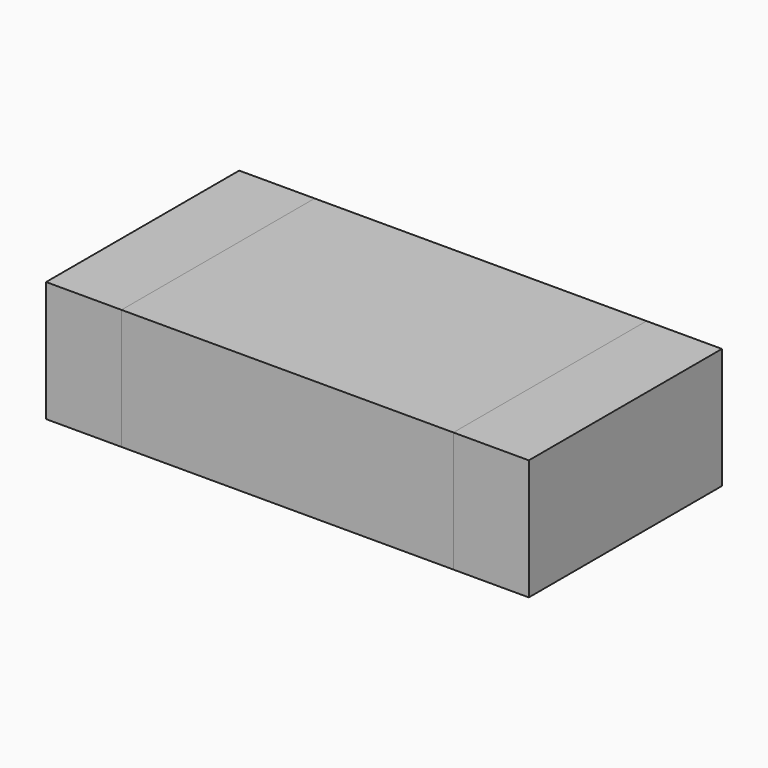
from build123d import *

# Parameters (mm, degrees)
BOX_W        = 0.5
BOX_H        = 1.6
BOX_DEPTH    = 0.8
BOX001_W     = 2.2
BOX001_H     = 1.6
BOX001_DEPTH = 0.8
BOX002_W     = 0.5
BOX002_H     = 1.6
BOX002_DEPTH = 0.8


with BuildPart() as pad001:
    # Box → Box (new body)
    with BuildSketch(Plane.XY):
        with Locations((0.25, 0.8)):
            Rectangle(BOX_W, BOX_H)
    extrude(amount=BOX_DEPTH)


with BuildPart() as corpo:
    # Box001 → Box001 (new body)
    with BuildSketch(Plane(origin=(0.5, 0, 0), x_dir=(1, 0, 0), z_dir=(0, 0, 1))):
        with Locations((1.1, 0.8)):
            Rectangle(BOX001_W, BOX001_H)
    extrude(amount=BOX001_DEPTH)


with BuildPart() as pad002:
    # Box002 → Box002 (new body)
    with BuildSketch(Plane(origin=(2.7, 0, 0), x_dir=(1, 0, 0), z_dir=(0, 0, 1))):
        with Locations((0.25, 0.8)):
            Rectangle(BOX002_W, BOX002_H)
    extrude(amount=BOX002_DEPTH)


solid = Compound([pad001.part, corpo.part, pad002.part])
